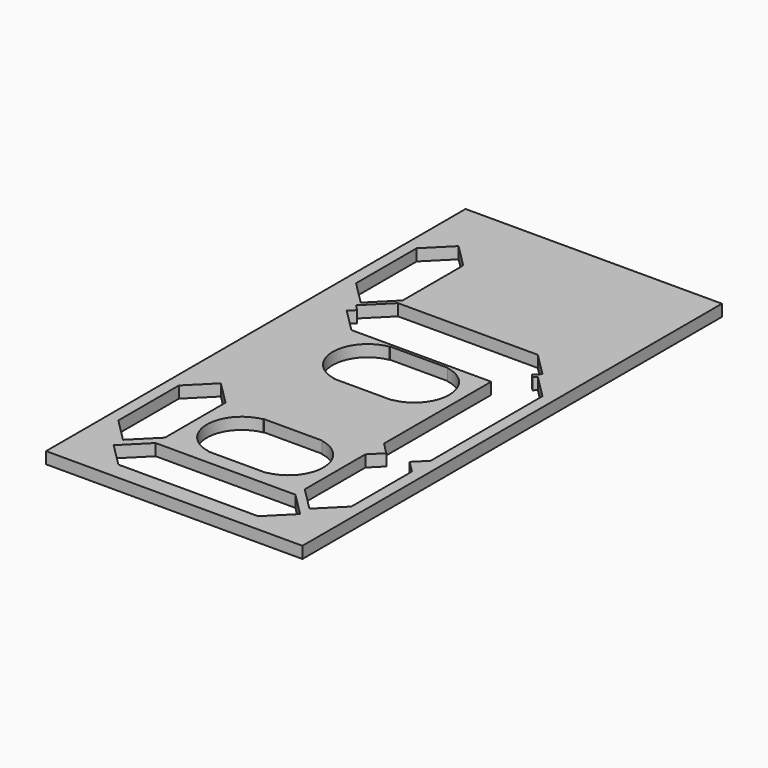
from build123d import *

# Parameters (mm, degrees)
BOX007_W          = 10
BOX007_H          = 12
BOX007_DEPTH      = 10
CYLINDER003_R     = 6
CYLINDER003_DEPTH = 10
CYLINDER002_R     = 6
CYLINDER002_DEPTH = 10
BOX006_W          = 10
BOX006_H          = 12
BOX006_DEPTH      = 10
CYLINDER_R        = 6
CYLINDER_DEPTH    = 10
CYLINDER001_R     = 6
CYLINDER001_DEPTH = 10
EXTRUDE002_DEPTH  = 20
EXTRUDE003_DEPTH  = 20
EXTRUDE004_DEPTH  = 20
EXTRUDE005_DEPTH  = 20
EXTRUDE006_DEPTH  = 20
EXTRUDE001_DEPTH  = 20
EXTRUDE_DEPTH     = 20
BOX_W             = 44
BOX_H             = 90
BOX_DEPTH         = 2


with BuildPart() as cube007:
    # Box007 → Box007 (new body)
    with BuildSketch(Plane(origin=(17, 13.5, 0), x_dir=(1, 0, 0), z_dir=(0, 0, 1))):
        with Locations((5, 6)):
            Rectangle(BOX007_W, BOX007_H)
    extrude(amount=BOX007_DEPTH)


with BuildPart() as fusion003:
    # Cylinder003 → Cylinder003 (new body)
    with BuildSketch(Plane(origin=(18, 19.5, 0), x_dir=(1, 0, 0), z_dir=(0, 0, 1))):
        Circle(CYLINDER003_R)
    extrude(amount=CYLINDER003_DEPTH)

    # Fusion003: union Cube007
    add(cube007.part)


with BuildPart() as fusion002:
    # Cylinder002 → Cylinder002 (new body)
    with BuildSketch(Plane(origin=(26, 19.5, 0), x_dir=(1, 0, 0), z_dir=(0, 0, 1))):
        Circle(CYLINDER002_R)
    extrude(amount=CYLINDER002_DEPTH)

    # Fusion002: union Fusion003
    add(fusion003.part)


with BuildPart() as fusion002_1:
    # Fusion002 placement: moved
    add(fusion002.part.moved(Location((0, 27, 0))))


with BuildPart() as cube006:
    # Box006 → Box006 (new body)
    with BuildSketch(Plane(origin=(17, 13.5, 0), x_dir=(1, 0, 0), z_dir=(0, 0, 1))):
        with Locations((5, 6)):
            Rectangle(BOX006_W, BOX006_H)
    extrude(amount=BOX006_DEPTH)


with BuildPart() as fusion:
    # Cylinder → Cylinder (new body)
    with BuildSketch(Plane(origin=(18, 19.5, 0), x_dir=(1, 0, 0), z_dir=(0, 0, 1))):
        Circle(CYLINDER_R)
    extrude(amount=CYLINDER_DEPTH)

    # Fusion: union Cube006
    add(cube006.part)


with BuildPart() as fusion001:
    # Cylinder001 → Cylinder001 (new body)
    with BuildSketch(Plane(origin=(26, 19.5, 0), x_dir=(1, 0, 0), z_dir=(0, 0, 1))):
        Circle(CYLINDER001_R)
    extrude(amount=CYLINDER001_DEPTH)

    # Fusion001: union Fusion
    add(fusion.part)


with BuildPart() as extrude_c:
    # Sketch007 (on Face6 of Box005) → Extrude002 (new body)
    with BuildSketch(Plane.XY.offset(10)):
        Polygon((38, 30), (42, 26), (42, 13), (38, 9), (34, 13), (34, 26), align=None)
    extrude(amount=EXTRUDE002_DEPTH)


with BuildPart() as extrude_c_1:
    # Extrude002 placement: moved
    add(extrude_c.part.moved(Location((0, 0, -18))))


with BuildPart() as extrude_d:
    # Sketch004 (on Face6 of Box002) → Extrude003 (new body)
    with BuildSketch(Plane.XY.offset(10)):
        Polygon((10, 11), (6, 7), (10, 3), (34, 3), (38, 7), (34, 11), align=None)
    extrude(amount=EXTRUDE003_DEPTH)


with BuildPart() as extrude_d_1:
    # Extrude003 placement: moved
    add(extrude_d.part.moved(Location((0, 0, -20))))


with BuildPart() as extrude_e:
    # Sketch005 (on Face6 of Box003) → Extrude004 (new body)
    with BuildSketch(Plane.XY.offset(10)):
        Polygon((6, 30), (10, 26), (10, 13), (6, 9), (2, 13), (2, 26), align=None)
    extrude(amount=EXTRUDE004_DEPTH)


with BuildPart() as extrude_e_1:
    # Extrude004 placement: moved
    add(extrude_e.part.moved(Location((0, 0, -20))))


with BuildPart() as extrude_f:
    # Sketch (on Face6 of Box) → Extrude005 (new body)
    with BuildSketch(Plane.XY.offset(2)):
        Polygon((6, 81), (10, 77), (10, 64), (6, 60), (2, 64), (2, 77), align=None)
    extrude(amount=EXTRUDE005_DEPTH)


with BuildPart() as extrude_f_1:
    # Extrude005 placement: moved
    add(extrude_f.part.moved(Location((0, 0, -12))))


with BuildPart() as extrude_g:
    # Sketch002 (on Face6 of Box) → Extrude006 (new body)
    with BuildSketch(Plane.XY.offset(2)):
        Polygon((10, 61), (6, 57), (10, 53), (34, 53), (38, 57), (34, 61), align=None)
    extrude(amount=EXTRUDE006_DEPTH)


with BuildPart() as extrude_g_1:
    # Extrude006 placement: moved
    add(extrude_g.part.moved(Location((0, 0, -13))))


with BuildPart() as extrude_b:
    # Sketch006 (on Face6 of Box004) → Extrude001 (new body)
    with BuildSketch(Plane.XY.offset(10)):
        Polygon((38, 58), (42, 54), (42, 30), (38, 26), (34, 30), (34, 54), align=None)
    extrude(amount=EXTRUDE001_DEPTH)


with BuildPart() as extrude_b_1:
    # Extrude001 placement: moved
    add(extrude_b.part.moved(Location((0, 0, -17))))


with BuildPart() as extrude_a:
    # Sketch003 (on Face6 of Box001) → Extrude (new body)
    with BuildSketch(Plane.XY.offset(10)):
        Polygon((10, 63), (6, 59), (10, 55), (34, 55), (38, 59), (34, 63), align=None)
    extrude(amount=EXTRUDE_DEPTH)


with BuildPart() as extrude_a_1:
    # Extrude placement: moved
    add(extrude_a.part.moved(Location((0, 0, -14))))


with BuildPart() as obj1:
    # Box → Box (new body)
    with BuildSketch(Plane.XY):
        with Locations((22, 45)):
            Rectangle(BOX_W, BOX_H)
    extrude(amount=BOX_DEPTH)

    # Cut: cut Extrude_A
    add(extrude_a_1.part, mode=Mode.SUBTRACT)

    # Cut001: cut Extrude_B
    add(extrude_b_1.part, mode=Mode.SUBTRACT)

    # Cut002: cut Extrude_G
    add(extrude_g_1.part, mode=Mode.SUBTRACT)

    # Cut003: cut Extrude_F
    add(extrude_f_1.part, mode=Mode.SUBTRACT)

    # Cut004: cut Extrude_E
    add(extrude_e_1.part, mode=Mode.SUBTRACT)

    # Cut005: cut Extrude_D
    add(extrude_d_1.part, mode=Mode.SUBTRACT)

    # Cut006: cut Extrude_C
    add(extrude_c_1.part, mode=Mode.SUBTRACT)

    # Cut007: cut Fusion001
    add(fusion001.part, mode=Mode.SUBTRACT)

    # Cut008: cut Fusion002
    add(fusion002_1.part, mode=Mode.SUBTRACT)


solid = obj1.part
